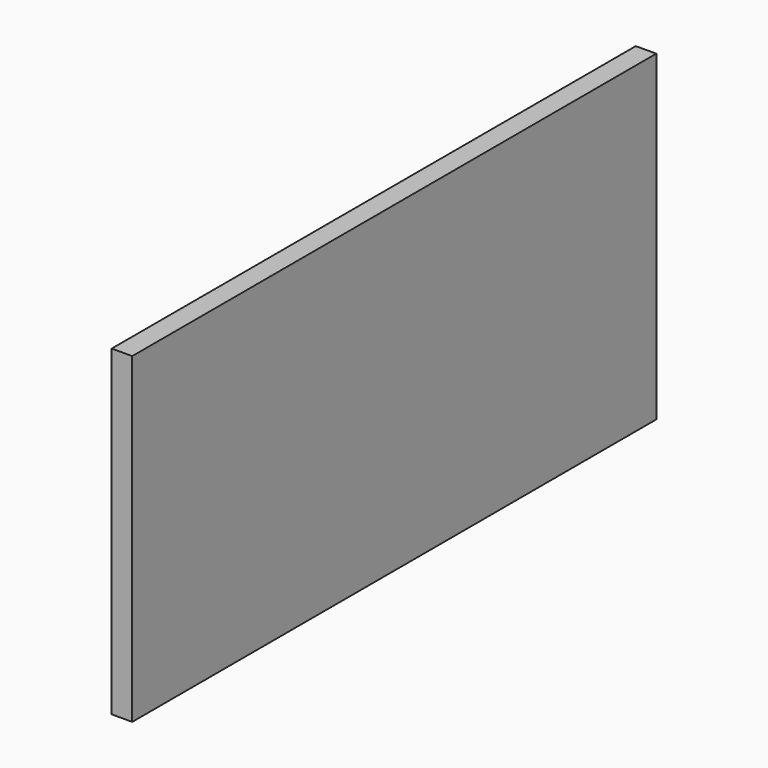
from build123d import *

# Parameters (mm, degrees)
F0_W     = 895
F0_H     = 440
F1_DEPTH = 28
F2_T     = -2
F4_W     = 28
F4_H     = 200
F5_DEPTH = 2


with BuildPart() as f1:
    # F0 (on Right) → F1 (new body)
    with BuildSketch(Plane.YZ):
        Rectangle(F0_W, F0_H)
    extrude(amount=F1_DEPTH)

    # F2
    f2_openings = [f1.faces().sort_by_distance(p)[0] for p in [
        (0, 0, 0),
    ]]
    offset(amount=F2_T, openings=f2_openings)

    # F4 (on face) → F5 (join)
    with BuildSketch(Plane(origin=(0, 0, 0), x_dir=(0, -1, 0), z_dir=(-1, 0, 0))):
        with Locations((-433.5, -120)):
            Rectangle(F4_W, F4_H)
        with Locations((433.5, -120)):
            Rectangle(F4_W, F4_H)
    extrude(amount=-F5_DEPTH)


solid = f1.part
